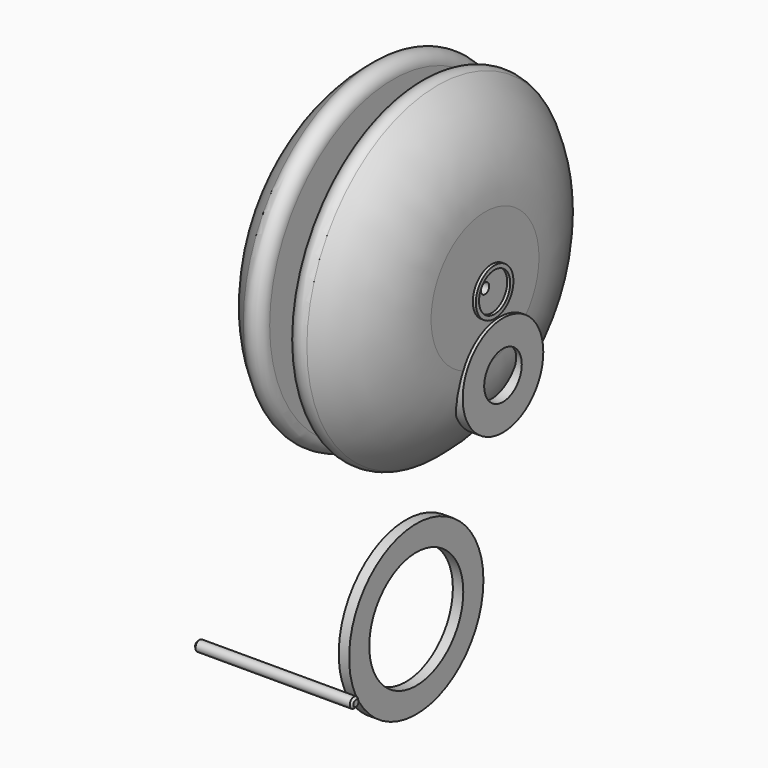
from build123d import *

# Parameters (mm, degrees)
F1_R      = 0.7874
F2_DEPTH  = 33.909
F3_SIZE   = 0.3048
F9_R      = 7.6236459427
F9_R_2    = 3.553991206
F10_DEPTH = 1.5748
F12_R     = 3.553991206
F12_R_2   = 2.9499975499
F13_DEPTH = 0.4572
F16_R     = 12.7
F16_R_2   = 8.89
F17_DEPTH = 1.5748
F18_DEPTH = 23.9522
F19_SIZE  = 0.3048


with BuildPart() as f2:
    # F1 (on Right) → F2 (new body)
    with BuildSketch(Plane.YZ):
        with Locations((-39.3853113055, -35.3657752275)):
            Circle(F1_R)
    extrude(amount=F2_DEPTH)

    # F3
    f3_edges = [f2.edges().sort_by_distance(p)[0] for p in [
        (33.909, -40.172711, -35.365775),
        (0, -40.172711, -35.365775),
    ]]
    chamfer(f3_edges, length=F3_SIZE)


with BuildPart() as f5:
    # F4 (on Top) → F5 (revolve)
    with BuildSketch(Plane.XY):
        with BuildLine():
            ThreePointArc((-4.810778987, 24.7315437196), (-10.0896592648, 18.3043957243), (-11.9793522448, 10.2047742033))
            Line((-11.9793522448, 10.2047742033), (-11.9793522448, 0.7874))
            Line((-11.9793522448, 0.7874), (-9.3685631268, 0.7874))
            Line((-9.3685631268, 0.7874), (-9.3685631268, 2.1904882131))
            Line((-9.3685631268, 2.1904882131), (-6.0273339317, 2.1904882131))
            Line((-6.0273339317, 2.1904882131), (-6.0273339317, 2.9499975499))
            Line((-6.0273339317, 2.9499975499), (-6.4890715294, 2.9499975499))
            Line((-6.4890715294, 2.9499975499), (-6.4890715294, 3.8395083975))
            Line((-6.4890715294, 3.8395083975), (-5.4311427785, 3.8395083975))
            Line((-5.4311427785, 3.8395083975), (-5.4311427785, 8.89))
            Line((-5.4311427785, 8.89), (-5.9391427785, 8.89))
            Line((-5.9391427785, 8.89), (-5.9391427785, 12.7))
            Line((-5.9391427785, 12.7), (-4.3643427785, 12.7))
            Line((-4.3643427785, 12.7), (-4.3643427785, 9.2077940939))
            Line((-4.3643427785, 9.2077940939), (-4.3643427785, 9.0807940939))
            Line((-4.3643427785, 9.0807940939), (-4.2585514377, 9.0807940939))
            Line((-4.2585514377, 9.0807940939), (-2.6545385182, 9.0807940939))
            Line((-2.6545385182, 9.0807940939), (-2.0781453184, 9.0807940939))
            ThreePointArc((-2.0781453184, 9.0807940939), (-1.9883427572, 9.1179915327), (-1.9511453184, 9.2077940939))
            Line((-1.9511453184, 9.2077940939), (-1.9511453184, 23.3203907843))
            ThreePointArc((-1.9511453184, 23.3203907843), (-2.9423355138, 24.9148230755), (-4.810778987, 24.7315437196))
        make_face()
    revolve(axis=Axis((-17.7333177999, 0, 0), (1, 0, 0)))


with BuildPart() as f6:
    # F0 (on Top) → F6 (revolve)
    with BuildSketch(Plane.XY):
        with BuildLine():
            Line((-1.2490222894, 4.7664048232), (-1.977419908, 7.9493019037))
            ThreePointArc((-1.977419908, 7.9493019037), (-2.0220648047, 8.0202860063), (-2.1012195135, 8.0479706898))
            Line((-2.1012195135, 8.0479706898), (-4.8958676104, 8.0479706898))
            ThreePointArc((-4.8958676104, 8.0479706898), (-4.9856701716, 8.010773251), (-5.0228676104, 7.9209706898))
            Line((-5.0228676104, 7.9209706898), (-5.0228676104, 7.6236459427))
            Line((-5.0228676104, 7.6236459427), (-3.4480676104, 7.6236459427))
            Line((-3.4480676104, 7.6236459427), (-3.4480676104, 3.553991206))
            Line((-3.4480676104, 3.553991206), (-5.0228676104, 3.553991206))
            Line((-5.0228676104, 3.553991206), (-5.0228676104, 2.9499975499))
            Line((-5.0228676104, 2.9499975499), (-5.484605208, 2.9499975499))
            Line((-5.484605208, 2.9499975499), (-5.484605208, 2.3876))
            Line((-5.484605208, 2.3876), (5.484605208, 2.3876))
            Line((5.484605208, 2.3876), (5.484605208, 2.9499975499))
            Line((5.484605208, 2.9499975499), (5.0228676104, 2.9499975499))
            Line((5.0228676104, 2.9499975499), (5.0228676104, 3.553991206))
            Line((5.0228676104, 3.553991206), (3.4480676104, 3.553991206))
            Line((3.4480676104, 3.553991206), (3.4480676104, 7.6236459427))
            Line((3.4480676104, 7.6236459427), (5.0228676104, 7.6236459427))
            Line((5.0228676104, 7.6236459427), (5.0228676104, 7.9209706898))
            ThreePointArc((5.0228676104, 7.9209706898), (4.9856701716, 8.010773251), (4.8958676104, 8.0479706898))
            Line((4.8958676104, 8.0479706898), (2.1012195135, 8.0479706898))
            ThreePointArc((2.1012195135, 8.0479706898), (2.0220648047, 8.0202860063), (1.977419908, 7.9493019037))
            Line((1.977419908, 7.9493019037), (1.2490222894, 4.7664048232))
            ThreePointArc((1.2490222894, 4.7664048232), (1.1234981698, 4.5668250809), (0.9009458546, 4.4889864972))
            Line((0.9009458546, 4.4889864972), (-0.9009458546, 4.4889864972))
            ThreePointArc((-0.9009458546, 4.4889864972), (-1.1234981698, 4.5668250809), (-1.2490222894, 4.7664048232))
        make_face()
    revolve(axis=Axis((2.2696501616, 0, 0), (1, 0, 0)))


with BuildPart() as f8_1:
    # F8: instance of F5
    add(f5.part.mirror(Plane.YZ))


with BuildPart() as f10:
    # F9 (on face) → F10 (new body)
    with BuildSketch(Plane.YZ.offset(3.4480676104)):
        with Locations((2.7884461451, -34.8212644458)):
            Circle(F9_R)
        with Locations((2.7884461451, -34.8212644458)):
            Circle(F9_R_2, mode=Mode.SUBTRACT)
    extrude(amount=F10_DEPTH)


with BuildPart() as f10_1:
    # F11: moved
    add(f10.part.moved(Location((7.4422, 0, 0))))


with BuildPart() as f13:
    # F12 (on face) → F13 (new body)
    with BuildSketch(Plane.YZ.offset(5.0228676104)):
        Circle(F12_R)
        Circle(F12_R_2, mode=Mode.SUBTRACT)
    extrude(amount=F13_DEPTH)


with BuildPart() as f13_1:
    # F14: moved
    add(f13.part.moved(Location((7.9502, 0, 0))))


with BuildPart() as f10_2:
    # F15: moved
    add(f10_1.part.moved(Location((0, 0, 22.2758))))


with BuildPart() as f17:
    # F16 (on Right) → F17 (new body)
    with BuildSketch(Plane.YZ):
        with Locations((0, -47.4184975028)):
            Circle(F16_R)
        with Locations((0, -47.4184975028)):
            Circle(F16_R_2, mode=Mode.SUBTRACT)
    extrude(amount=F17_DEPTH)


with BuildPart() as f18:
    # F1 (on Right) → F18 (new body)
    with BuildSketch(Plane.YZ):
        with Locations((-39.3853113055, -35.3657752275)):
            Circle(F1_R)
    extrude(amount=F18_DEPTH)

    # F19
    f19_edges = [f18.edges().sort_by_distance(p)[0] for p in [
        (23.9522, -40.172711, -35.365775),
        (0, -40.172711, -35.365775),
    ]]
    chamfer(f19_edges, length=F19_SIZE)


solid = Compound([f5.part, f6.part, f8_1.part, f13_1.part, f10_2.part, f17.part, f18.part])
